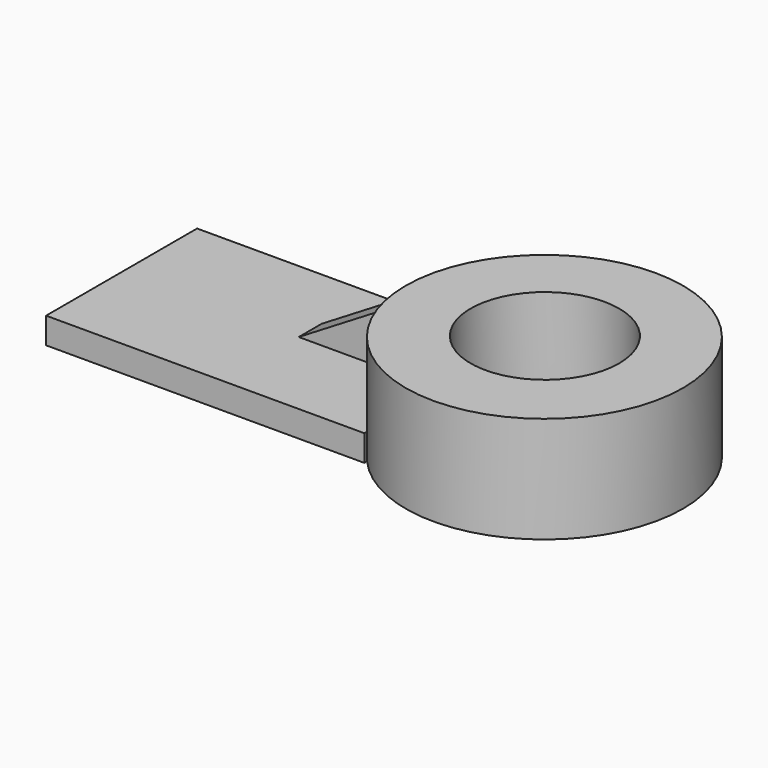
from build123d import *

# Parameters (mm, degrees)
F0_R     = 40.431193
F1_DEPTH = 30.988
F2_W     = 92.792079
F2_H     = 55.050961
F3_DEPTH = 7.62
F4_R     = 21.650202
F5_DEPTH = 25.4
F7_DEPTH = 8.382


with BuildPart() as f1:
    # F0 (on Top) → F1 (new body)
    with BuildSketch(Plane.XY):
        with Locations((47.183454, 0)):
            Circle(F0_R)
    extrude(amount=F1_DEPTH)

    # F2 (on Top) → F3 (join)
    with BuildSketch(Plane.XY):
        with Locations((-29.601619, -0.147059)):
            Rectangle(F2_W, F2_H)
    extrude(amount=F3_DEPTH)

    # F4 (on face) → F5 (cut)
    with BuildSketch(Plane.XY.offset(30.988)):
        with Locations((46.995543, 0.420476)):
            Circle(F4_R)
    extrude(amount=-F5_DEPTH, mode=Mode.SUBTRACT)


with BuildPart() as f7:
    # F6 (on Front) → F7 (new body)
    with BuildSketch(Plane.XZ):
        Polygon((6.698596, 7.646974), (6.415375, 26.339576), (-24.455739, 7.646974), align=None)
    extrude(amount=-F7_DEPTH)


solid = Compound([f1.part, f7.part])
